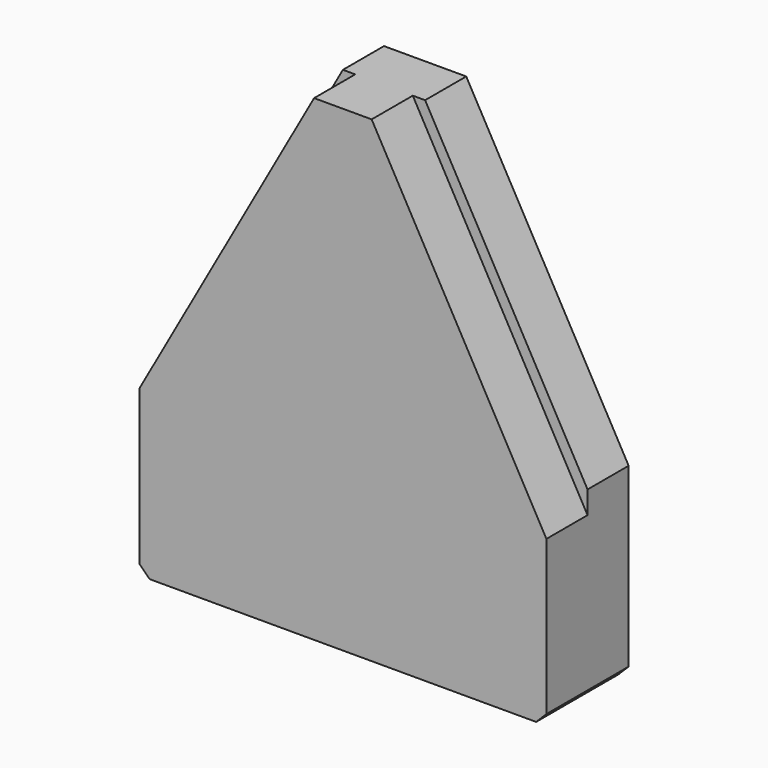
from build123d import *

# Parameters (mm, degrees)
F1_DEPTH = 25
F3_DEPTH = 25


with BuildPart() as f1:
    # F0 (on Front) → F1 (new body)
    with BuildSketch(Plane.XZ):
        Polygon((-94, -116), (94, -116), (94, -111), (99, -111), (99, -36), (14, 116), (0, 116), (-14, 116), (-99, -36), (-99, -111), (-94, -111), align=None)
        Polygon((94, -111), (94, -116), (99, -111), align=None)
        Polygon((-99, -111), (-94, -116), (-94, -111), align=None)
        Polygon((14, 116), (99, -36), (99, -30), (99, -25), (20, 116), align=None)
        Polygon((-99, -30), (-99, -36), (-14, 116), (-20, 116), (-99, -25), align=None)
    extrude(amount=F1_DEPTH)

    # F2 (on face) → F3 (join)
    with BuildSketch(Plane.XZ.offset(25)):
        Polygon((14, 116), (0, 116), (-14, 116), (-99, -36), (-99, -111), (-94, -116), (94, -116), (99, -111), (99, -36), align=None)
    extrude(amount=F3_DEPTH)


solid = f1.part
